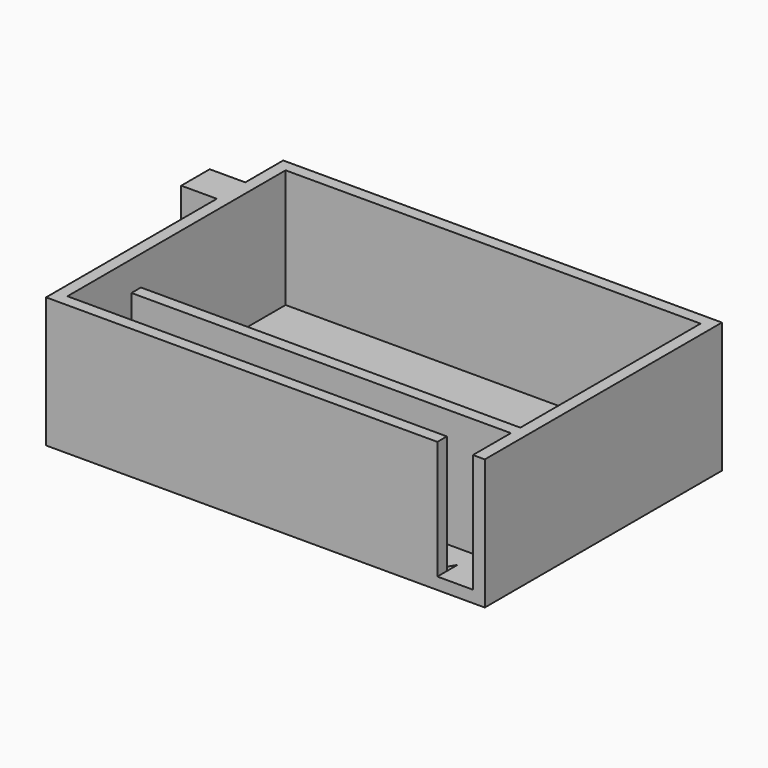
from build123d import *

# Parameters (mm, degrees)
F1_DEPTH = 1
F0_W     = 32
F0_H     = 1
F0_W_2   = 3
F0_H_2   = 3
F2_DEPTH = 11


with BuildPart() as f1:
    # F0 (on Top) → F1 (new body)
    with BuildSketch(Plane.XY):
        Polygon((16, -11.5), (16, -12.5), (19, -12.5), (19, -11.5), (19, -8.5), (-13, -8.5), (-13, -7.5), (19, -7.5), (19, 11.5), (-16, 11.5), (-16, -11.5), (15.306097, -11.5), (16, -10.364711), align=None)
        Polygon((16, -11.5), (16, -12.5), (19, -12.5), (19, -11.5), (19, -8.5), (-13, -8.5), (-13, -7.5), (19, -7.5), (19, 11.5), (-16, 11.5), (-16, -11.5), (15.306097, -11.5), (16, -10.364711), align=None)
    extrude(amount=F1_DEPTH)

    # F0 (on Top) → F2 (join)
    with BuildSketch(Plane.XY):
        Polygon((-17, -10.5), (-17, -12.5), (16, -12.5), (16, -11.5), (15.306097, -11.5), (-16, -11.5), (-16, 11.5), (19, 11.5), (19, -7.5), (19, -8.5), (19, -11.5), (19, -12.5), (20, -12.5), (20, 12.5), (-17, 12.5), (-17, 8.5), (-17, 5.5), (-17, 3.5), (-17, 1.5), (-17, -0.5), (-17, -2.5), (-17, -4.5), (-17, -6.5), (-17, -8.5), align=None)
        with Locations((3, -8)):
            Rectangle(F0_W, F0_H)
        with Locations((-18.5, 7)):
            Rectangle(F0_W_2, F0_H_2)
    extrude(amount=F2_DEPTH)


solid = f1.part
